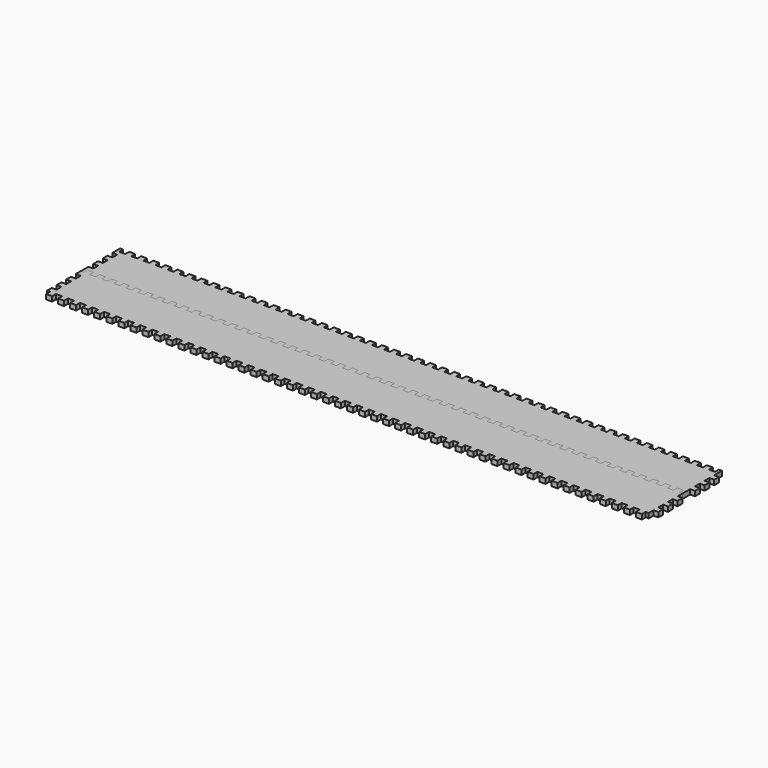
from build123d import *

# Parameters (mm, degrees)
F1_DEPTH = 5.08
F6_DEPTH = 5.08


with BuildPart() as f1:
    # F0 (on Top) → F1 (new body)
    with BuildSketch(Plane.XY):
        Polygon((-412.579677, 255.626866), (-418.929677, 255.626866), (-418.929677, 250.546866), (-425.279677, 250.546866), (-425.279677, 255.626866), (-428.454677, 255.626866), (-428.454677, 245.466866), (-423.374677, 245.466866), (-423.374677, 239.116866), (-428.454677, 239.116866), (-428.454677, 232.766866), (-423.374677, 232.766866), (-423.374677, 226.416866), (-428.454677, 226.416866), (-428.454677, 220.066866), (-423.374677, 220.066866), (-423.374677, 213.716866), (-428.454677, 213.716866), (-428.454677, 203.556866), (-425.279677, 203.556866), (-425.279677, 208.636866), (-418.929677, 208.636866), (-418.929677, 203.556866), (-412.579677, 203.556866), (-412.579677, 208.636866), (-406.229677, 208.636866), (-406.229677, 203.556866), (-399.879677, 203.556866), (-399.879677, 208.636866), (-393.529677, 208.636866), (-393.529677, 203.556866), (-387.179677, 203.556866), (-387.179677, 208.636866), (-380.829677, 208.636866), (-380.829677, 203.556866), (-374.479677, 203.556866), (-374.479677, 208.636866), (-368.129677, 208.636866), (-368.129677, 203.556866), (-361.779677, 203.556866), (-361.779677, 208.636866), (-355.429677, 208.636866), (-355.429677, 203.556866), (-349.079677, 203.556866), (-349.079677, 208.636866), (-342.729677, 208.636866), (-342.729677, 203.556866), (-336.379677, 203.556866), (-336.379677, 208.636866), (-330.029677, 208.636866), (-330.029677, 203.556866), (-323.679677, 203.556866), (-323.679677, 208.636866), (-317.329677, 208.636866), (-317.329677, 203.556866), (-310.979677, 203.556866), (-310.979677, 208.636866), (-304.629677, 208.636866), (-304.629677, 203.556866), (-298.279677, 203.556866), (-298.279677, 208.636866), (-291.929677, 208.636866), (-291.929677, 203.556866), (-285.579677, 203.556866), (-285.579677, 208.636866), (-279.229677, 208.636866), (-279.229677, 203.556866), (-272.879677, 203.556866), (-272.879677, 208.636866), (-266.529677, 208.636866), (-266.529677, 203.556866), (-260.179677, 203.556866), (-260.179677, 208.636866), (-253.829677, 208.636866), (-253.829677, 203.556866), (-247.479677, 203.556866), (-247.479677, 208.636866), (-241.129677, 208.636866), (-241.129677, 203.556866), (-234.779677, 203.556866), (-234.779677, 208.636866), (-228.429677, 208.636866), (-228.429677, 203.556866), (-222.079677, 203.556866), (-222.079677, 208.636866), (-215.729677, 208.636866), (-215.729677, 203.556866), (-209.379677, 203.556866), (-209.379677, 208.636866), (-203.029677, 208.636866), (-203.029677, 203.556866), (-196.679677, 203.556866), (-196.679677, 208.636866), (-190.329677, 208.636866), (-190.329677, 203.556866), (-183.979677, 203.556866), (-183.979677, 208.636866), (-177.629677, 208.636866), (-177.629677, 203.556866), (-171.279677, 203.556866), (-171.279677, 208.636866), (-164.929677, 208.636866), (-164.929677, 203.556866), (-158.579677, 203.556866), (-158.579677, 208.636866), (-152.229677, 208.636866), (-152.229677, 203.556866), (-145.879677, 203.556866), (-145.879677, 208.636866), (-139.529677, 208.636866), (-139.529677, 203.556866), (-133.179677, 203.556866), (-133.179677, 208.636866), (-126.829677, 208.636866), (-126.829677, 203.556866), (-120.479677, 203.556866), (-120.479677, 208.636866), (-114.129677, 208.636866), (-114.129677, 203.556866), (-107.779677, 203.556866), (-107.779677, 208.636866), (-101.429677, 208.636866), (-101.429677, 203.556866), (-95.079677, 203.556866), (-95.079677, 208.636866), (-88.729677, 208.636866), (-88.729677, 203.556866), (-82.379677, 203.556866), (-82.379677, 208.636866), (-76.029677, 208.636866), (-76.029677, 203.556866), (-69.679677, 203.556866), (-69.679677, 208.636866), (-63.329677, 208.636866), (-63.329677, 203.556866), (-56.979677, 203.556866), (-56.979677, 208.636866), (-50.629677, 208.636866), (-50.629677, 203.556866), (-44.279677, 203.556866), (-44.279677, 208.636866), (-37.929677, 208.636866), (-37.929677, 203.556866), (-31.579677, 203.556866), (-31.579677, 208.636866), (-25.229677, 208.636866), (-25.229677, 203.556866), (-18.879677, 203.556866), (-18.879677, 208.636866), (-12.529677, 208.636866), (-12.529677, 203.556866), (-6.179677, 203.556866), (-6.179677, 208.636866), (0.170323, 208.636866), (0.170323, 203.556866), (6.520323, 203.556866), (6.520323, 208.636866), (12.870323, 208.636866), (12.870323, 203.556866), (19.220323, 203.556866), (19.220323, 208.636866), (25.570323, 208.636866), (25.570323, 203.556866), (31.920323, 203.556866), (31.920323, 208.636866), (38.270323, 208.636866), (38.270323, 203.556866), (44.620323, 203.556866), (44.620323, 208.636866), (50.970323, 208.636866), (50.970323, 203.556866), (57.320323, 203.556866), (57.320323, 208.636866), (63.670323, 208.636866), (63.670323, 203.556866), (70.020323, 203.556866), (70.020323, 208.636866), (76.370323, 208.636866), (76.370323, 203.556866), (82.720323, 203.556866), (82.720323, 208.636866), (89.070323, 208.636866), (89.070323, 203.556866), (95.420323, 203.556866), (95.420323, 208.636866), (101.770323, 208.636866), (101.770323, 203.556866), (108.120323, 203.556866), (108.120323, 208.636866), (114.470323, 208.636866), (114.470323, 203.556866), (120.820323, 203.556866), (120.820323, 208.636866), (127.170323, 208.636866), (127.170323, 203.556866), (133.520323, 203.556866), (133.520323, 208.636866), (139.870323, 208.636866), (139.870323, 203.556866), (146.220323, 203.556866), (146.220323, 208.636866), (152.570323, 208.636866), (152.570323, 203.556866), (158.920323, 203.556866), (158.920323, 208.636866), (165.270323, 208.636866), (165.270323, 203.556866), (171.620323, 203.556866), (171.620323, 208.636866), (177.970323, 208.636866), (177.970323, 203.556866), (184.320323, 203.556866), (184.320323, 208.636866), (190.670323, 208.636866), (190.670323, 203.556866), (197.020323, 203.556866), (197.020323, 208.636866), (203.370323, 208.636866), (203.370323, 203.556866), (206.545323, 203.556866), (206.545323, 203.990646), (206.545323, 213.716866), (211.625323, 213.716866), (211.625323, 220.066866), (206.545323, 220.066866), (206.545323, 226.416866), (211.625323, 226.416866), (211.625323, 232.766866), (206.545323, 232.766866), (206.545323, 239.116866), (211.625323, 239.116866), (211.625323, 245.466866), (206.545323, 245.466866), (206.545323, 255.626866), (203.370323, 255.626866), (203.370323, 250.546866), (197.020323, 250.546866), (197.020323, 255.626866), (190.670323, 255.626866), (190.670323, 250.546866), (184.320323, 250.546866), (184.320323, 255.626866), (177.970323, 255.626866), (177.970323, 250.546866), (171.620323, 250.546866), (171.620323, 255.626866), (165.270323, 255.626866), (165.270323, 250.546866), (158.920323, 250.546866), (158.920323, 255.626866), (152.570323, 255.626866), (152.570323, 250.546866), (146.220323, 250.546866), (146.220323, 255.626866), (139.870323, 255.626866), (139.870323, 250.546866), (133.520323, 250.546866), (133.520323, 255.626866), (127.170323, 255.626866), (127.170323, 250.546866), (120.820323, 250.546866), (120.820323, 255.626866), (114.470323, 255.626866), (114.470323, 250.546866), (108.120323, 250.546866), (108.120323, 255.626866), (101.770323, 255.626866), (101.770323, 250.546866), (95.420323, 250.546866), (95.420323, 255.626866), (89.070323, 255.626866), (89.070323, 250.546866), (82.720323, 250.546866), (82.720323, 255.626866), (76.370323, 255.626866), (76.370323, 250.546866), (70.020323, 250.546866), (70.020323, 255.626866), (63.670323, 255.626866), (63.670323, 250.546866), (57.320323, 250.546866), (57.320323, 255.626866), (50.970323, 255.626866), (50.970323, 250.546866), (44.620323, 250.546866), (44.620323, 255.626866), (38.270323, 255.626866), (38.270323, 250.546866), (31.920323, 250.546866), (31.920323, 255.626866), (25.570323, 255.626866), (25.570323, 250.546866), (19.220323, 250.546866), (19.220323, 255.626866), (12.870323, 255.626866), (12.870323, 250.546866), (6.520323, 250.546866), (6.520323, 255.626866), (0.170323, 255.626866), (0.170323, 250.546866), (-6.179677, 250.546866), (-6.179677, 255.626866), (-12.529677, 255.626866), (-12.529677, 250.546866), (-18.879677, 250.546866), (-18.879677, 255.626866), (-25.229677, 255.626866), (-25.229677, 250.546866), (-31.579677, 250.546866), (-31.579677, 255.626866), (-37.929677, 255.626866), (-37.929677, 250.546866), (-44.279677, 250.546866), (-44.279677, 255.626866), (-50.629677, 255.626866), (-50.629677, 250.546866), (-56.979677, 250.546866), (-56.979677, 255.626866), (-63.329677, 255.626866), (-63.329677, 250.546866), (-69.679677, 250.546866), (-69.679677, 255.626866), (-76.029677, 255.626866), (-76.029677, 250.546866), (-82.379677, 250.546866), (-82.379677, 255.626866), (-88.729677, 255.626866), (-88.729677, 250.546866), (-95.079677, 250.546866), (-95.079677, 255.626866), (-101.429677, 255.626866), (-101.429677, 250.546866), (-107.779677, 250.546866), (-107.779677, 255.626866), (-114.129677, 255.626866), (-114.129677, 250.546866), (-120.479677, 250.546866), (-120.479677, 255.626866), (-126.829677, 255.626866), (-126.829677, 250.546866), (-133.179677, 250.546866), (-133.179677, 255.626866), (-139.529677, 255.626866), (-139.529677, 250.546866), (-145.879677, 250.546866), (-145.879677, 255.626866), (-152.229677, 255.626866), (-152.229677, 250.546866), (-158.579677, 250.546866), (-158.579677, 255.626866), (-164.929677, 255.626866), (-164.929677, 250.546866), (-171.279677, 250.546866), (-171.279677, 255.626866), (-177.629677, 255.626866), (-177.629677, 250.546866), (-183.979677, 250.546866), (-183.979677, 255.626866), (-190.329677, 255.626866), (-190.329677, 250.546866), (-196.679677, 250.546866), (-196.679677, 255.626866), (-203.029677, 255.626866), (-203.029677, 250.546866), (-209.379677, 250.546866), (-209.379677, 255.626866), (-215.729677, 255.626866), (-215.729677, 250.546866), (-222.079677, 250.546866), (-222.079677, 255.626866), (-228.429677, 255.626866), (-228.429677, 250.546866), (-234.779677, 250.546866), (-234.779677, 255.626866), (-241.129677, 255.626866), (-241.129677, 250.546866), (-247.479677, 250.546866), (-247.479677, 255.626866), (-253.829677, 255.626866), (-253.829677, 250.546866), (-260.179677, 250.546866), (-260.179677, 255.626866), (-266.529677, 255.626866), (-266.529677, 250.546866), (-272.879677, 250.546866), (-272.879677, 255.626866), (-279.229677, 255.626866), (-279.229677, 250.546866), (-285.579677, 250.546866), (-285.579677, 255.626866), (-291.929677, 255.626866), (-291.929677, 250.546866), (-298.279677, 250.546866), (-298.279677, 255.626866), (-304.629677, 255.626866), (-304.629677, 250.546866), (-310.979677, 250.546866), (-310.979677, 255.626866), (-317.329677, 255.626866), (-317.329677, 250.546866), (-323.679677, 250.546866), (-323.679677, 255.626866), (-330.029677, 255.626866), (-330.029677, 250.546866), (-336.379677, 250.546866), (-336.379677, 255.626866), (-342.729677, 255.626866), (-342.729677, 250.546866), (-349.079677, 250.546866), (-349.079677, 255.626866), (-355.429677, 255.626866), (-355.429677, 250.546866), (-361.779677, 250.546866), (-361.779677, 255.626866), (-368.129677, 255.626866), (-368.129677, 250.546866), (-374.479677, 250.546866), (-374.479677, 255.626866), (-380.829677, 255.626866), (-380.829677, 250.546866), (-387.179677, 250.546866), (-387.179677, 255.626866), (-393.529677, 255.626866), (-393.529677, 250.546866), (-399.879677, 250.546866), (-399.879677, 255.626866), (-406.229677, 255.626866), (-406.229677, 250.546866), (-412.579677, 250.546866), align=None)
    extrude(amount=F1_DEPTH)


with BuildPart() as f2_1:
    # F2: copy of F1
    add(f1.part.moved(Location((0, 89.93165, 0))))


with BuildPart() as f3_1:
    # F3: copy of F2_1
    add(f2_1.part.moved(Location((0, 70.2601, 0))))


with BuildPart() as f6:
    # F0 (on Top) → F6 (new body)
    with BuildSketch(Plane.XY):
        Polygon((-425.279677, 203.556866), (-428.454677, 203.556866), (-428.454677, 197.206866), (-423.374677, 197.206866), (-423.374677, 190.856866), (-428.454677, 190.856866), (-428.454677, 184.506866), (-423.374677, 184.506866), (-423.374677, 178.156866), (-428.454677, 178.156866), (-428.454677, 171.806866), (-423.374677, 171.806866), (-423.374677, 165.456866), (-428.454677, 165.456866), (-428.454677, 159.106866), (-425.279677, 159.106866), (-425.279677, 154.026866), (-418.929677, 154.026866), (-418.929677, 159.106866), (-412.579677, 159.106866), (-412.579677, 154.026866), (-406.229677, 154.026866), (-406.229677, 159.106866), (-399.879677, 159.106866), (-399.879677, 154.026866), (-393.529677, 154.026866), (-393.529677, 159.106866), (-387.179677, 159.106866), (-387.179677, 154.026866), (-380.829677, 154.026866), (-380.829677, 159.106866), (-374.479677, 159.106866), (-374.479677, 154.026866), (-368.129677, 154.026866), (-368.129677, 159.106866), (-361.779677, 159.106866), (-361.779677, 154.026866), (-355.429677, 154.026866), (-355.429677, 159.106866), (-349.079677, 159.106866), (-349.079677, 154.026866), (-342.729677, 154.026866), (-342.729677, 159.106866), (-336.379677, 159.106866), (-336.379677, 154.026866), (-330.029677, 154.026866), (-330.029677, 159.106866), (-323.679677, 159.106866), (-323.679677, 154.026866), (-317.329677, 154.026866), (-317.329677, 159.106866), (-310.979677, 159.106866), (-310.979677, 154.026866), (-304.629677, 154.026866), (-304.629677, 159.106866), (-298.279677, 159.106866), (-298.279677, 154.026866), (-291.929677, 154.026866), (-291.929677, 159.106866), (-285.579677, 159.106866), (-285.579677, 154.026866), (-279.229677, 154.026866), (-279.229677, 159.106866), (-272.879677, 159.106866), (-272.879677, 154.026866), (-266.529677, 154.026866), (-266.529677, 159.106866), (-260.179677, 159.106866), (-260.179677, 154.026866), (-253.829677, 154.026866), (-253.829677, 159.106866), (-247.479677, 159.106866), (-247.479677, 154.026866), (-241.129677, 154.026866), (-241.129677, 159.106866), (-234.779677, 159.106866), (-234.779677, 154.026866), (-228.429677, 154.026866), (-228.429677, 159.106866), (-222.079677, 159.106866), (-222.079677, 154.026866), (-215.729677, 154.026866), (-215.729677, 159.106866), (-209.379677, 159.106866), (-209.379677, 154.026866), (-203.029677, 154.026866), (-203.029677, 159.106866), (-196.679677, 159.106866), (-196.679677, 154.026866), (-190.329677, 154.026866), (-190.329677, 159.106866), (-183.979677, 159.106866), (-183.979677, 154.026866), (-177.629677, 154.026866), (-177.629677, 159.106866), (-171.279677, 159.106866), (-171.279677, 154.026866), (-164.929677, 154.026866), (-164.929677, 159.106866), (-158.579677, 159.106866), (-158.579677, 154.026866), (-152.229677, 154.026866), (-152.229677, 159.106866), (-145.879677, 159.106866), (-145.879677, 154.026866), (-139.529677, 154.026866), (-139.529677, 159.106866), (-133.179677, 159.106866), (-133.179677, 154.026866), (-126.829677, 154.026866), (-126.829677, 159.106866), (-120.479677, 159.106866), (-120.479677, 154.026866), (-114.129677, 154.026866), (-114.129677, 159.106866), (-107.779677, 159.106866), (-107.779677, 154.026866), (-101.429677, 154.026866), (-101.429677, 159.106866), (-95.079677, 159.106866), (-95.079677, 154.026866), (-88.729677, 154.026866), (-88.729677, 159.106866), (-82.379677, 159.106866), (-82.379677, 154.026866), (-76.029677, 154.026866), (-76.029677, 159.106866), (-69.679677, 159.106866), (-69.679677, 154.026866), (-63.329677, 154.026866), (-63.329677, 159.106866), (-56.979677, 159.106866), (-56.979677, 154.026866), (-50.629677, 154.026866), (-50.629677, 159.106866), (-44.279677, 159.106866), (-44.279677, 154.026866), (-37.929677, 154.026866), (-37.929677, 159.106866), (-31.579677, 159.106866), (-31.579677, 154.026866), (-25.229677, 154.026866), (-25.229677, 159.106866), (-18.879677, 159.106866), (-18.879677, 154.026866), (-12.529677, 154.026866), (-12.529677, 159.106866), (-6.179677, 159.106866), (-6.179677, 154.026866), (0.170323, 154.026866), (0.170323, 159.106866), (6.520323, 159.106866), (6.520323, 154.026866), (12.870323, 154.026866), (12.870323, 159.106866), (19.220323, 159.106866), (19.220323, 154.026866), (25.570323, 154.026866), (25.570323, 159.106866), (31.920323, 159.106866), (31.920323, 154.026866), (38.270323, 154.026866), (38.270323, 159.106866), (44.620323, 159.106866), (44.620323, 154.026866), (50.970323, 154.026866), (50.970323, 159.106866), (57.320323, 159.106866), (57.320323, 154.026866), (63.670323, 154.026866), (63.670323, 159.106866), (70.020323, 159.106866), (70.020323, 154.026866), (76.370323, 154.026866), (76.370323, 159.106866), (82.720323, 159.106866), (82.720323, 154.026866), (89.070323, 154.026866), (89.070323, 159.106866), (95.420323, 159.106866), (95.420323, 154.026866), (101.770323, 154.026866), (101.770323, 159.106866), (108.120323, 159.106866), (108.120323, 154.026866), (114.470323, 154.026866), (114.470323, 159.106866), (120.820323, 159.106866), (120.820323, 154.026866), (127.170323, 154.026866), (127.170323, 159.106866), (133.520323, 159.106866), (133.520323, 154.026866), (139.870323, 154.026866), (139.870323, 159.106866), (146.220323, 159.106866), (146.220323, 154.026866), (152.570323, 154.026866), (152.570323, 159.106866), (158.920323, 159.106866), (158.920323, 154.026866), (165.270323, 154.026866), (165.270323, 159.106866), (171.620323, 159.106866), (171.620323, 154.026866), (177.970323, 154.026866), (177.970323, 159.106866), (184.320323, 159.106866), (184.320323, 154.026866), (190.670323, 154.026866), (190.670323, 159.106866), (197.020323, 159.106866), (197.020323, 154.026866), (203.370323, 154.026866), (203.370323, 159.106866), (206.545323, 159.106866), (206.545323, 165.456866), (211.625323, 165.456866), (211.625323, 171.806866), (206.545323, 171.806866), (206.545323, 178.156866), (211.625323, 178.156866), (211.625323, 184.506866), (206.545323, 184.506866), (206.545323, 190.856866), (211.625323, 190.856866), (211.625323, 197.423756), (206.545323, 197.423756), (206.545323, 203.556866), (203.370323, 203.556866), (203.370323, 208.636866), (197.020323, 208.636866), (197.020323, 203.556866), (190.670323, 203.556866), (190.670323, 208.636866), (184.320323, 208.636866), (184.320323, 203.556866), (177.970323, 203.556866), (177.970323, 208.636866), (171.620323, 208.636866), (171.620323, 203.556866), (165.270323, 203.556866), (165.270323, 208.636866), (158.920323, 208.636866), (158.920323, 203.556866), (152.570323, 203.556866), (152.570323, 208.636866), (146.220323, 208.636866), (146.220323, 203.556866), (139.870323, 203.556866), (139.870323, 208.636866), (133.520323, 208.636866), (133.520323, 203.556866), (127.170323, 203.556866), (127.170323, 208.636866), (120.820323, 208.636866), (120.820323, 203.556866), (114.470323, 203.556866), (114.470323, 208.636866), (108.120323, 208.636866), (108.120323, 203.556866), (101.770323, 203.556866), (101.770323, 208.636866), (95.420323, 208.636866), (95.420323, 203.556866), (89.070323, 203.556866), (89.070323, 208.636866), (82.720323, 208.636866), (82.720323, 203.556866), (76.370323, 203.556866), (76.370323, 208.636866), (70.020323, 208.636866), (70.020323, 203.556866), (63.670323, 203.556866), (63.670323, 208.636866), (57.320323, 208.636866), (57.320323, 203.556866), (50.970323, 203.556866), (50.970323, 208.636866), (44.620323, 208.636866), (44.620323, 203.556866), (38.270323, 203.556866), (38.270323, 208.636866), (31.920323, 208.636866), (31.920323, 203.556866), (25.570323, 203.556866), (25.570323, 208.636866), (19.220323, 208.636866), (19.220323, 203.556866), (12.870323, 203.556866), (12.870323, 208.636866), (6.520323, 208.636866), (6.520323, 203.556866), (0.170323, 203.556866), (0.170323, 208.636866), (-6.179677, 208.636866), (-6.179677, 203.556866), (-12.529677, 203.556866), (-12.529677, 208.636866), (-18.879677, 208.636866), (-18.879677, 203.556866), (-25.229677, 203.556866), (-25.229677, 208.636866), (-31.579677, 208.636866), (-31.579677, 203.556866), (-37.929677, 203.556866), (-37.929677, 208.636866), (-44.279677, 208.636866), (-44.279677, 203.556866), (-50.629677, 203.556866), (-50.629677, 208.636866), (-56.979677, 208.636866), (-56.979677, 203.556866), (-63.329677, 203.556866), (-63.329677, 208.636866), (-69.679677, 208.636866), (-69.679677, 203.556866), (-76.029677, 203.556866), (-76.029677, 208.636866), (-82.379677, 208.636866), (-82.379677, 203.556866), (-88.729677, 203.556866), (-88.729677, 208.636866), (-95.079677, 208.636866), (-95.079677, 203.556866), (-101.429677, 203.556866), (-101.429677, 208.636866), (-107.779677, 208.636866), (-107.779677, 203.556866), (-114.129677, 203.556866), (-114.129677, 208.636866), (-120.479677, 208.636866), (-120.479677, 203.556866), (-126.829677, 203.556866), (-126.829677, 208.636866), (-133.179677, 208.636866), (-133.179677, 203.556866), (-139.529677, 203.556866), (-139.529677, 208.636866), (-145.879677, 208.636866), (-145.879677, 203.556866), (-152.229677, 203.556866), (-152.229677, 208.636866), (-158.579677, 208.636866), (-158.579677, 203.556866), (-164.929677, 203.556866), (-164.929677, 208.636866), (-171.279677, 208.636866), (-171.279677, 203.556866), (-177.629677, 203.556866), (-177.629677, 208.636866), (-183.979677, 208.636866), (-183.979677, 203.556866), (-190.329677, 203.556866), (-190.329677, 208.636866), (-196.679677, 208.636866), (-196.679677, 203.556866), (-203.029677, 203.556866), (-203.029677, 208.636866), (-209.379677, 208.636866), (-209.379677, 203.556866), (-215.729677, 203.556866), (-215.729677, 208.636866), (-222.079677, 208.636866), (-222.079677, 203.556866), (-228.429677, 203.556866), (-228.429677, 208.636866), (-234.779677, 208.636866), (-234.779677, 203.556866), (-241.129677, 203.556866), (-241.129677, 208.636866), (-247.479677, 208.636866), (-247.479677, 203.556866), (-253.829677, 203.556866), (-253.829677, 208.636866), (-260.179677, 208.636866), (-260.179677, 203.556866), (-266.529677, 203.556866), (-266.529677, 208.636866), (-272.879677, 208.636866), (-272.879677, 203.556866), (-279.229677, 203.556866), (-279.229677, 208.636866), (-285.579677, 208.636866), (-285.579677, 203.556866), (-291.929677, 203.556866), (-291.929677, 208.636866), (-298.279677, 208.636866), (-298.279677, 203.556866), (-304.629677, 203.556866), (-304.629677, 208.636866), (-310.979677, 208.636866), (-310.979677, 203.556866), (-317.329677, 203.556866), (-317.329677, 208.636866), (-323.679677, 208.636866), (-323.679677, 203.556866), (-330.029677, 203.556866), (-330.029677, 208.636866), (-336.379677, 208.636866), (-336.379677, 203.556866), (-342.729677, 203.556866), (-342.729677, 208.636866), (-349.079677, 208.636866), (-349.079677, 203.556866), (-355.429677, 203.556866), (-355.429677, 208.636866), (-361.779677, 208.636866), (-361.779677, 203.556866), (-368.129677, 203.556866), (-368.129677, 208.636866), (-374.479677, 208.636866), (-374.479677, 203.556866), (-380.829677, 203.556866), (-380.829677, 208.636866), (-387.179677, 208.636866), (-387.179677, 203.556866), (-393.529677, 203.556866), (-393.529677, 208.636866), (-399.879677, 208.636866), (-399.879677, 203.556866), (-406.229677, 203.556866), (-406.229677, 208.636866), (-412.579677, 208.636866), (-412.579677, 203.556866), (-418.929677, 203.556866), (-418.929677, 208.636866), (-425.279677, 208.636866), align=None)
    extrude(amount=F6_DEPTH)


solid = Compound([f1.part, f6.part])
